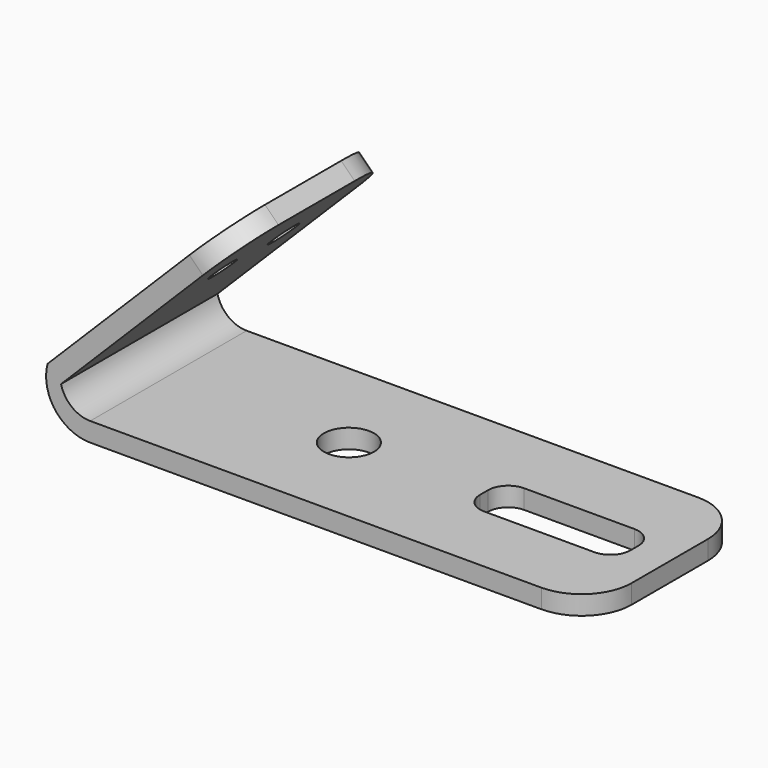
from build123d import *

# Parameters (mm, degrees)
F1_DEPTH  = 247.65
F2_R      = 5.08
F3_R      = 38.1
F3_R_2    = 35.399063
F4_DEPTH  = 127
F5_R      = 127
F6_R      = 127
F7_R      = 63.5
F8_DEPTH  = 127
F9_W      = 381
F9_H      = 127
F10_DEPTH = 127
F11_R     = 50.8


with BuildPart() as f1:
    # F0 (on Front) → F1 (new body, symmetric)
    with BuildSketch(Plane.XZ):
        with BuildLine():
            Line((-1270, 0), (0, 0))
            Line((0, 0), (0, 48.26))
            Line((0, 48.26), (-1270, 48.26))
            ThreePointArc((-1270, 48.26), (-1317.048486, 64.613863), (-1343.809963, 106.623768))
            Line((-1343.809963, 106.623768), (-894.797157, 555.636574))
            Line((-894.797157, 555.636574), (-928.92213, 589.761548))
            Line((-928.92213, 589.761548), (-1377.934936, 140.748742))
            ThreePointArc((-1377.934936, 140.748742), (-1358.685059, 43.750751), (-1270, 0))
        make_face()
    extrude(amount=F1_DEPTH, both=True)

    # F2
    f2_edges = [f1.edges().sort_by_distance(p)[0] for p in [
        (-1377.934936, 0, 140.748742),
    ]]
    fillet(f2_edges, radius=F2_R)

    # F3 (on face) → F4 (cut)
    with BuildSketch(Plane(origin=(-759.341839, 0, 759.341839), x_dir=(0, -1, 0), z_dir=(-0.707107, 0, 0.707107))):
        with Locations((-95.25, -465.721811)):
            Circle(F3_R)
        with Locations((97.950937, -465.721811)):
            Circle(F3_R_2)
    extrude(amount=-F4_DEPTH, mode=Mode.SUBTRACT)

    # F5
    f5_edges = [f1.edges().sort_by_distance(p)[0] for p in [
        (0, -247.65, 24.13),
        (0, 247.65, 24.13),
    ]]
    fillet(f5_edges, radius=F5_R)

    # F6
    f6_edges = [f1.edges().sort_by_distance(p)[0] for p in [
        (-911.859644, -247.65, 572.699061),
        (-911.859644, 247.65, 572.699061),
    ]]
    fillet(f6_edges, radius=F6_R)

    # F7 (on face) → F8 (cut)
    with BuildSketch(Plane.XY.offset(48.26)):
        with Locations((-812.8, 0)):
            Circle(F7_R)
    extrude(amount=-F8_DEPTH, mode=Mode.SUBTRACT)

    # F9 (on face) → F10 (cut)
    with BuildSketch(Plane.XY.offset(48.26)):
        with Locations((-280.003726, 0)):
            Rectangle(F9_W, F9_H)
    extrude(amount=-F10_DEPTH, mode=Mode.SUBTRACT)

    # F11
    f11_edges = [f1.edges().sort_by_distance(p)[0] for p in [
        (-470.503726, 63.5, 24.13),
        (-470.503726, -63.5, 24.13),
        (-89.503726, 63.5, 24.13),
        (-89.503726, -63.5, 24.13),
    ]]
    fillet(f11_edges, radius=F11_R)


solid = f1.part
